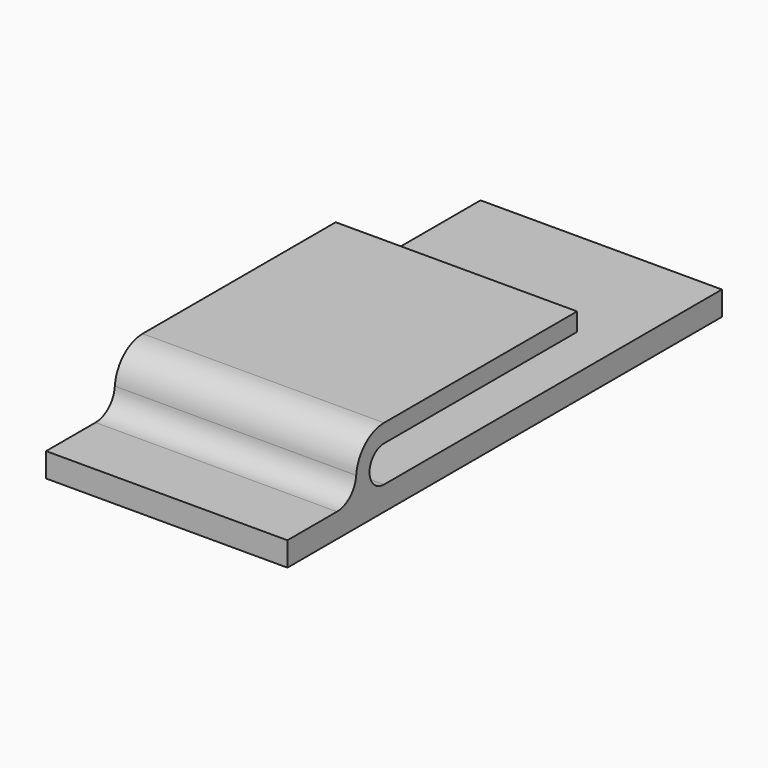
from build123d import *

# Parameters (mm, degrees)
F1_DEPTH = 20


with BuildPart() as f1:
    # F0 (on Right) → F1 (new body)
    with BuildSketch(Plane.YZ):
        with BuildLine():
            Line((0, 2), (0, 0))
            Line((0, 0), (45, 0))
            Line((45, 0), (45, 2))
            Line((45, 2), (10, 2))
            ThreePointArc((10, 2), (8.5, 3.5), (10, 5))
            Line((10, 5), (30, 5))
            Line((30, 5), (30, 6.5))
            Line((30, 6.5), (10, 6.5))
            ThreePointArc((10, 6.5), (8.041277, 5.73374), (7.122461, 3.841776))
            ThreePointArc((7.122461, 3.841776), (6.48585, 2.530911), (5.128729, 2))
            Line((5.128729, 2), (0, 2))
        make_face()
    extrude(amount=F1_DEPTH)


solid = f1.part
